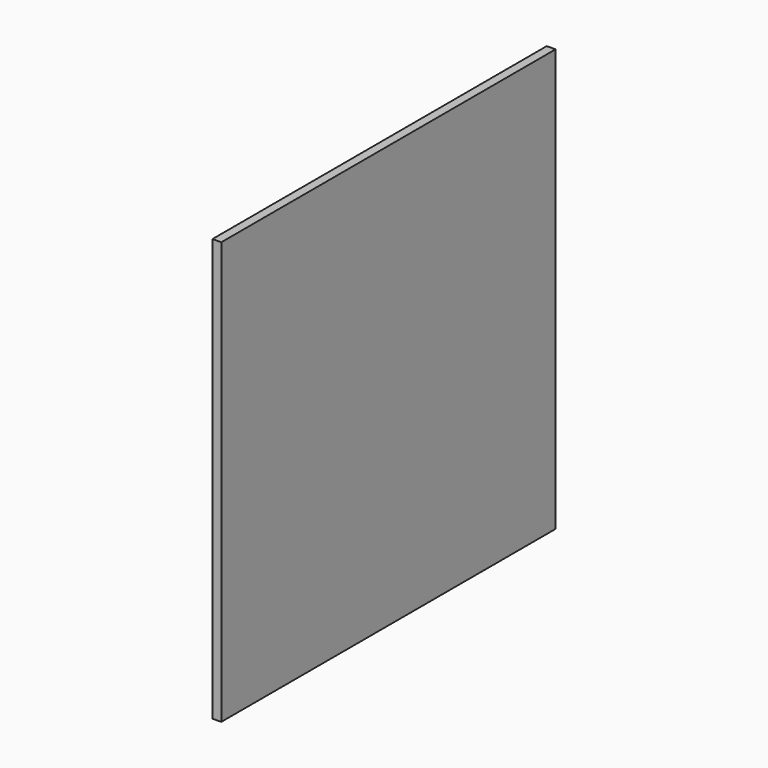
from build123d import *

# Parameters (mm, degrees)
F0_W     = 904.875
F0_H     = 914.4
F1_DEPTH = 19.05
F3_D     = 6.35
F3_DEPTH = 6.35
F3_TIP   = 1.9077324654


with BuildPart() as f1:
    # F0 (on Right) → F1 (new body)
    with BuildSketch(Plane.YZ):
        Rectangle(F0_W, F0_H)
    extrude(amount=F1_DEPTH)

    # F3
    with Locations(Plane(origin=(0, 0, 0), x_dir=(0, -1, 0), z_dir=(-1, 0, 0))):
        with Locations((-360.3625, 152.4), (350.8375, 152.4), (-4.7625, 152.4), (-360.3625, -254), (-360.3625, -50.8), (-4.7625, 50.8), (350.8375, 254), (350.8375, -152.4), (350.8375, 50.8), (-4.7625, 254), (-4.7625, -50.8), (-360.3625, 50.8), (-360.3625, 254), (350.8375, -254), (-4.7625, -254), (-4.7625, -152.4), (350.8375, -50.8), (-360.3625, -152.4)):
            Hole(F3_D / 2, depth=F3_DEPTH)
            with Locations((0, 0, -(F3_DEPTH + F3_TIP / 2))):  # 118° drill point
                Cone(0, F3_D / 2, F3_TIP, mode=Mode.SUBTRACT)


solid = f1.part
